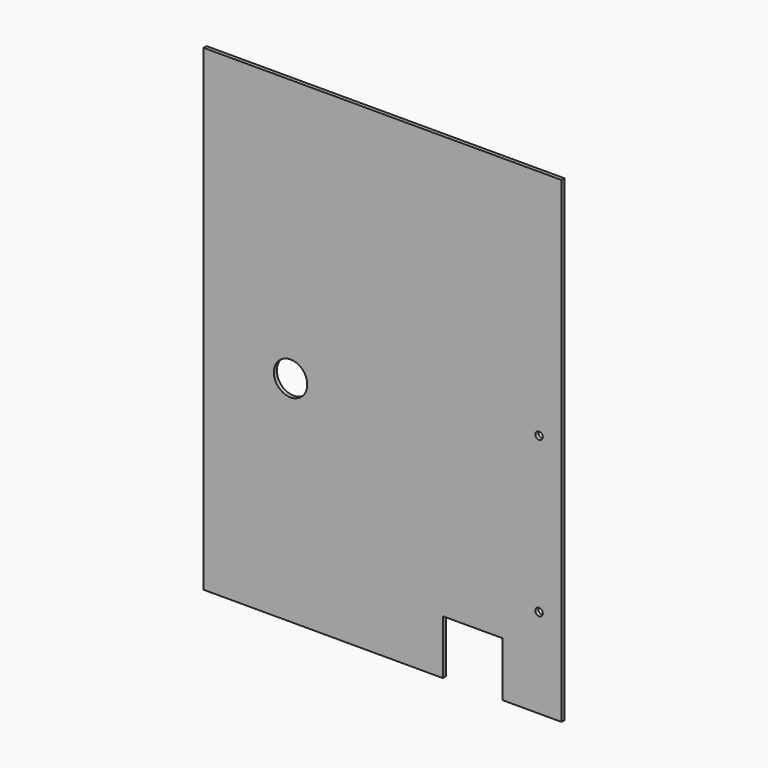
from build123d import *

# Parameters (mm, degrees)
F1_R     = 14.224
F1_R_2   = 3.175
F2_DEPTH = 3.175


with BuildPart() as f2:
    # F1 (on Front) → F2 (new body)
    with BuildSketch(Plane.XZ):
        Polygon((32.966901, -114.975878), (83.210295, -114.975878), (83.210295, 291.424122), (-221.589705, 291.424122), (-221.589705, -114.975878), (-17.833099, -114.975878), (-17.833099, -68.544678), (32.966901, -68.544678), align=None)
        with Locations((-147.515876, 67.586622)):
            Circle(F1_R, mode=Mode.SUBTRACT)
        with Locations((64.160295, -38.775878)):
            Circle(F1_R_2, mode=Mode.SUBTRACT)
        with Locations((64.160295, 93.474277)):
            Circle(F1_R_2, mode=Mode.SUBTRACT)
    extrude(amount=F2_DEPTH)


solid = f2.part
